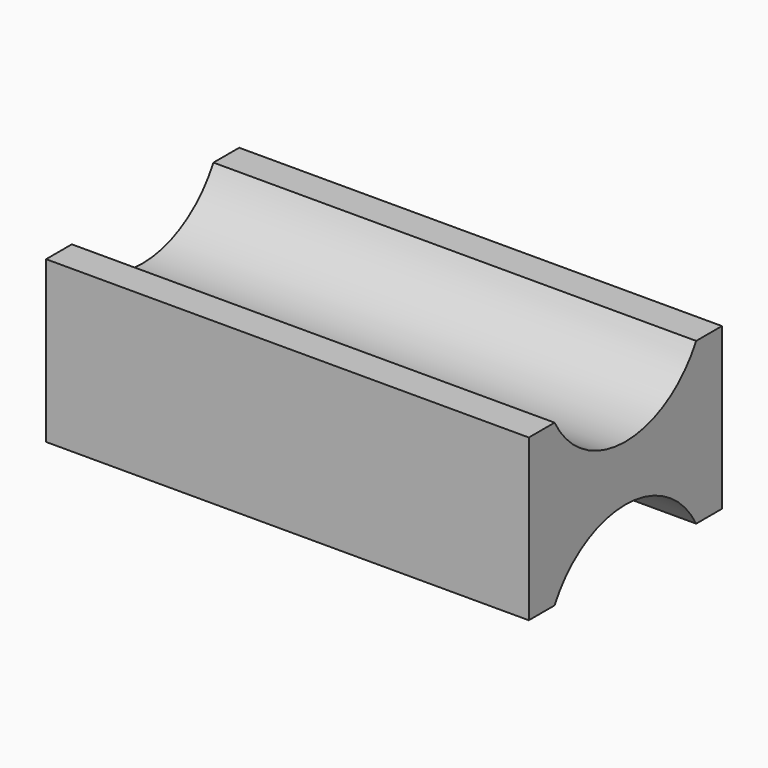
from build123d import *

# Parameters (mm, degrees)
F0_W     = 30
F0_H     = 15
F1_DEPTH = 10
F2_R     = 6.250744
F3_DEPTH = 30


with BuildPart() as f1:
    # F0 (on Top) → F1 (new body)
    with BuildSketch(Plane.XY):
        with Locations((-15, -7.5)):
            Rectangle(F0_W, F0_H)
    extrude(amount=F1_DEPTH)

    # F2 (on face) → F3 (cut)
    with BuildSketch(Plane(origin=(-30, 0, 0), x_dir=(0, -1, 0), z_dir=(-1, 0, 0))):
        with Locations((7.5, 12.970278)):
            Circle(F2_R)
        with Locations((7.5, -2.970278)):
            Circle(F2_R)
    extrude(amount=-F3_DEPTH, mode=Mode.SUBTRACT)


solid = f1.part
